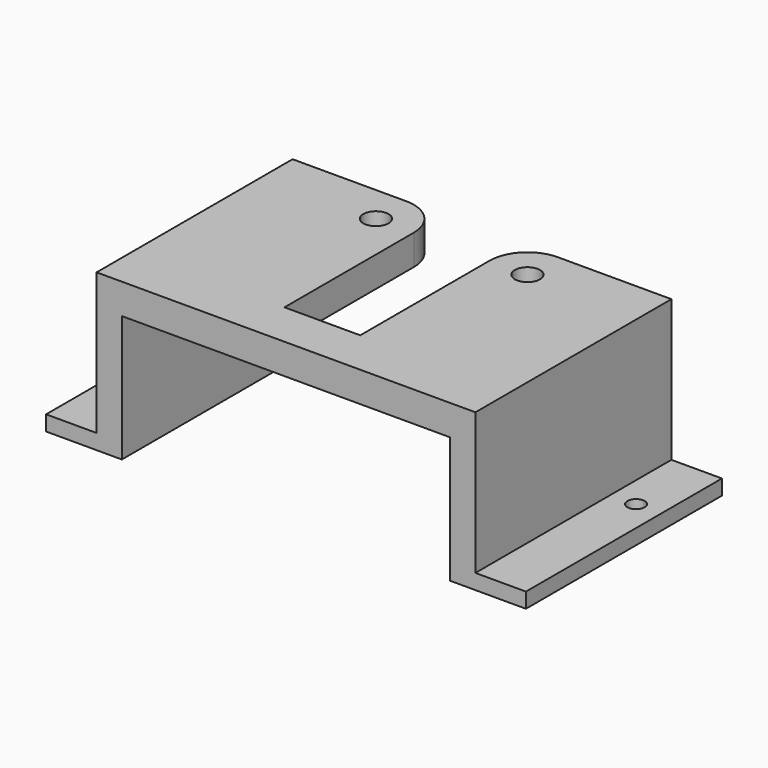
from build123d import *

# Parameters (mm, degrees)
SKETCH107_R   = 2.5
PAD038_DEPTH  = 6
SKETCH108_W   = 5
SKETCH108_H   = 48.5
PAD039_DEPTH  = 22
SKETCH109_W   = 15
SKETCH109_H   = 48.5
PAD040_DEPTH  = 3
SKETCH110_R   = 1.7
HOLE002_DEPTH = 25


with BuildPart() as part:
    # Sketch107 → Pad038 (new body)
    with BuildSketch(Plane.XY.offset(20)):
        with BuildLine():
            Line((-7.5, 7.5), (-7.5, -24.5))
            Line((-7.5, -24.5), (7.5, -24.5))
            Line((7.5, -24.5), (7.5, 7.5))
            ThreePointArc((15, 15), (9.696699, 12.803301), (7.5, 7.5))
            Line((15, 15), (37.5, 15))
            Line((37.5, 15), (37.5, -33.5))
            Line((0, -33.5), (37.5, -33.5))
            Line((-37.5, -33.5), (0, -33.5))
            Line((-37.5, -33.5), (-37.5, 15))
            Line((-37.5, 15), (-15, 15))
            ThreePointArc((-7.5, 7.5), (-9.696699, 12.803301), (-15, 15))
        make_face()
        with Locations((-15, 7.5)):
            Circle(SKETCH107_R, mode=Mode.SUBTRACT)
        with Locations((15, 7.5)):
            Circle(SKETCH107_R, mode=Mode.SUBTRACT)
    extrude(amount=PAD038_DEPTH)

    # Sketch108 → Pad039 (join)
    with BuildSketch(Plane.XY.offset(-2)):
        with Locations((-35, -9.25)):
            Rectangle(SKETCH108_W, SKETCH108_H)
        with Locations((35, -9.25)):
            Rectangle(SKETCH108_W, SKETCH108_H)
    extrude(amount=PAD039_DEPTH)

    # Sketch109 → Pad040 (join)
    with BuildSketch(Plane.XY.offset(-5)):
        with Locations((-40, -9.25)):
            Rectangle(SKETCH109_W, SKETCH109_H)
        with Locations((40, -9.25)):
            Rectangle(SKETCH109_W, SKETCH109_H)
    extrude(amount=PAD040_DEPTH)

    # Sketch110 → Hole002 (cut)
    with BuildSketch(Plane.XY.offset(3)):
        with Locations((-42.5, 0)):
            Circle(SKETCH110_R)
        with Locations((42.5, 0)):
            Circle(SKETCH110_R)
    extrude(amount=-HOLE002_DEPTH, mode=Mode.SUBTRACT)


solid = part.part
